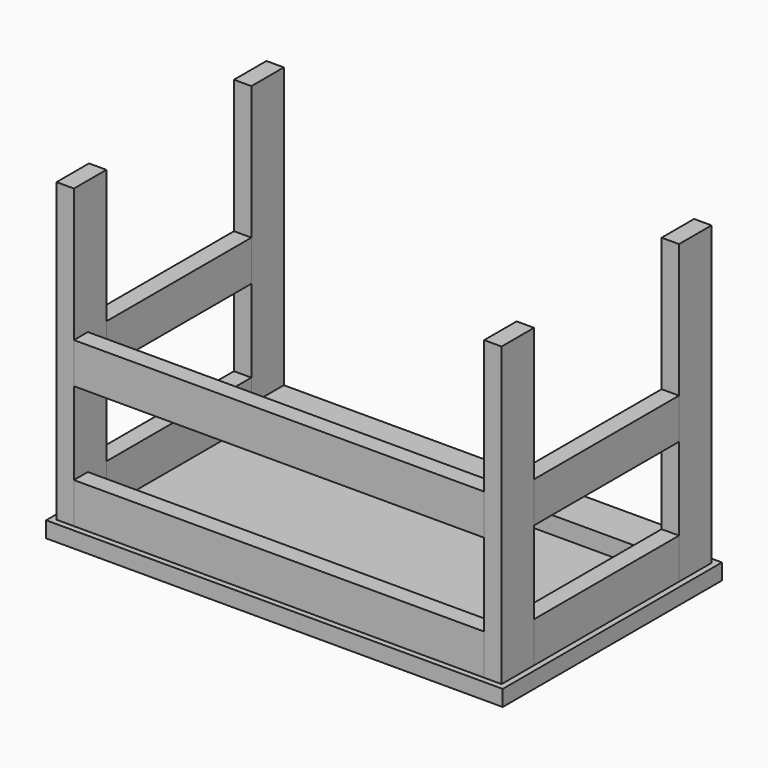
from build123d import *

# Parameters (mm, degrees)
BOX_W        = 1000.12
BOX_H        = 600.075
BOX_DEPTH    = 34.925
BOX001_W     = 38.1
BOX001_H     = 88.9
BOX001_DEPTH = 650.875
BOX002_W     = 38.1
BOX002_H     = 88.9
BOX002_DEPTH = 650.875
BOX003_W     = 38.1
BOX003_H     = 88.9
BOX003_DEPTH = 650.875
BOX004_W     = 38.1
BOX004_H     = 88.9
BOX004_DEPTH = 650.875
BOX005_W     = 898.525
BOX005_H     = 38.1
BOX005_DEPTH = 88.9
BOX006_W     = 898.525
BOX006_H     = 38.1
BOX006_DEPTH = 88.9
BOX007_W     = 38.1
BOX007_H     = 396.875
BOX007_DEPTH = 88.9
BOX008_W     = 38.1
BOX008_H     = 396.875
BOX008_DEPTH = 88.9
BOX009_W     = 38.1
BOX009_H     = 396.875
BOX009_DEPTH = 88.9
BOX010_W     = 38.1
BOX010_H     = 396.875
BOX010_DEPTH = 88.9
BOX011_W     = 898.525
BOX011_H     = 38.1
BOX011_DEPTH = 88.9


with BuildPart() as tabletop:
    # Box → Box (new body)
    with BuildSketch(Plane.XY):
        with Locations((500.06, 300.0375)):
            Rectangle(BOX_W, BOX_H)
    extrude(amount=BOX_DEPTH)


with BuildPart() as leg_back_right:
    # Box001 → Box001 (new body)
    with BuildSketch(Plane(origin=(12.7, 12.7, 34.925), x_dir=(1, 0, 0), z_dir=(0, 0, 1))):
        with Locations((19.05, 44.45)):
            Rectangle(BOX001_W, BOX001_H)
    extrude(amount=BOX001_DEPTH)


with BuildPart() as leg_front_right:
    # Box002 → Box002 (new body)
    with BuildSketch(Plane(origin=(12.7, 498.475, 34.925), x_dir=(1, 0, 0), z_dir=(0, 0, 1))):
        with Locations((19.05, 44.45)):
            Rectangle(BOX002_W, BOX002_H)
    extrude(amount=BOX002_DEPTH)


with BuildPart() as leg_front_left:
    # Box003 → Box003 (new body)
    with BuildSketch(Plane(origin=(949.325, 498.475, 34.925), x_dir=(1, 0, 0), z_dir=(0, 0, 1))):
        with Locations((19.05, 44.45)):
            Rectangle(BOX003_W, BOX003_H)
    extrude(amount=BOX003_DEPTH)


with BuildPart() as leg_back_left:
    # Box004 → Box004 (new body)
    with BuildSketch(Plane(origin=(949.325, 12.7, 34.925), x_dir=(1, 0, 0), z_dir=(0, 0, 1))):
        with Locations((19.05, 44.45)):
            Rectangle(BOX004_W, BOX004_H)
    extrude(amount=BOX004_DEPTH)


with BuildPart() as back_lower_brace:
    # Box005 → Box005 (new body)
    with BuildSketch(Plane(origin=(50.8, 12.7, 304.8), x_dir=(1, 0, 0), z_dir=(0, 0, 1))):
        with Locations((449.2625, 19.05)):
            Rectangle(BOX005_W, BOX005_H)
    extrude(amount=BOX005_DEPTH)


with BuildPart() as back_upper_brace:
    # Box006 → Box006 (new body)
    with BuildSketch(Plane(origin=(50.8, 12.7, 34.925), x_dir=(1, 0, 0), z_dir=(0, 0, 1))):
        with Locations((449.2625, 19.05)):
            Rectangle(BOX006_W, BOX006_H)
    extrude(amount=BOX006_DEPTH)


with BuildPart() as side_right_lower_brace:
    # Box007 → Box007 (new body)
    with BuildSketch(Plane(origin=(12.7, 101.6, 304.8), x_dir=(1, 0, 0), z_dir=(0, 0, 1))):
        with Locations((19.05, 198.4375)):
            Rectangle(BOX007_W, BOX007_H)
    extrude(amount=BOX007_DEPTH)


with BuildPart() as side_right_upper_brace:
    # Box008 → Box008 (new body)
    with BuildSketch(Plane(origin=(12.7, 101.6, 34.925), x_dir=(1, 0, 0), z_dir=(0, 0, 1))):
        with Locations((19.05, 198.4375)):
            Rectangle(BOX008_W, BOX008_H)
    extrude(amount=BOX008_DEPTH)


with BuildPart() as side_left_upper_brace:
    # Box009 → Box009 (new body)
    with BuildSketch(Plane(origin=(949.325, 101.6, 34.925), x_dir=(1, 0, 0), z_dir=(0, 0, 1))):
        with Locations((19.05, 198.4375)):
            Rectangle(BOX009_W, BOX009_H)
    extrude(amount=BOX009_DEPTH)


with BuildPart() as side_left_lower_brace:
    # Box010 → Box010 (new body)
    with BuildSketch(Plane(origin=(949.325, 101.6, 304.8), x_dir=(1, 0, 0), z_dir=(0, 0, 1))):
        with Locations((19.05, 198.4375)):
            Rectangle(BOX010_W, BOX010_H)
    extrude(amount=BOX010_DEPTH)


with BuildPart() as front_upper_brace:
    # Box011 → Box011 (new body)
    with BuildSketch(Plane(origin=(50.8, 587.375, 34.925), x_dir=(1, 0, 0), z_dir=(0, -1, 0))):
        with Locations((449.2625, 19.05)):
            Rectangle(BOX011_W, BOX011_H)
    extrude(amount=BOX011_DEPTH)


solid = Compound([tabletop.part, leg_back_right.part, leg_front_right.part, leg_front_left.part, leg_back_left.part, back_lower_brace.part, back_upper_brace.part, side_right_lower_brace.part, side_right_upper_brace.part, side_left_upper_brace.part, side_left_lower_brace.part, front_upper_brace.part])
